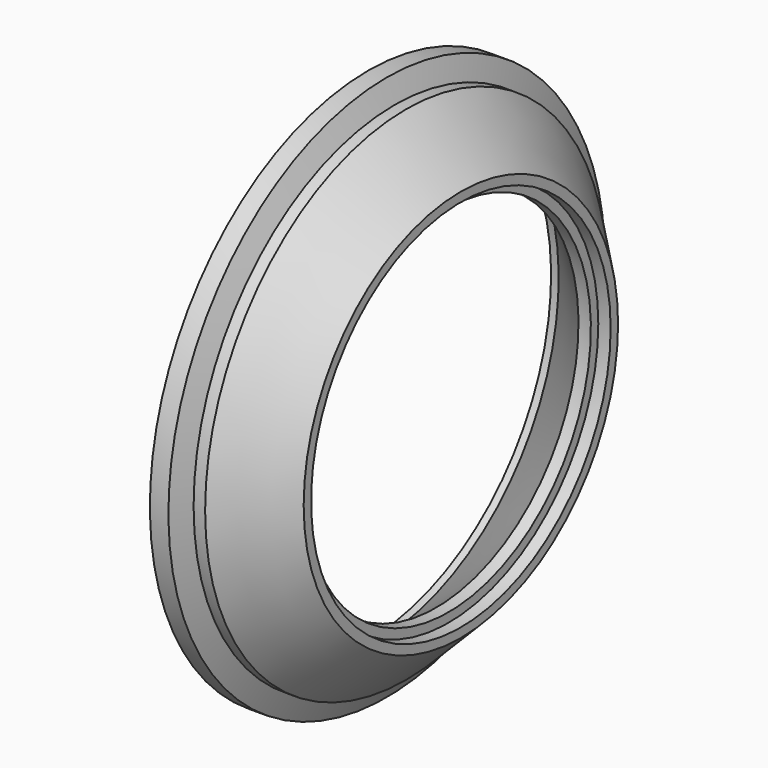
from build123d import *

# Parameters (mm, degrees)
F2_R     = 38.481
F3_DEPTH = 2.54


with BuildPart() as f1:
    # F0 (on Front) → F1 (revolve)
    with BuildSketch(Plane.XZ):
        Polygon((3.81, 56.0832), (0, 56.0832), (0, 46.99), (1.559078, 46.99), (13.97, 36.576), (19.05, 36.576), (19.05, 40.386), (7.7978, 51.6382), (5.427848, 51.6382), align=None)
    revolve(axis=Axis((33.549171, 0, 0), (-1, 0, 0)))

    # F2 (on face) → F3 (cut)
    with BuildSketch(Plane.YZ.offset(19.05)):
        Circle(F2_R)
    extrude(amount=-F3_DEPTH, mode=Mode.SUBTRACT)


solid = f1.part
